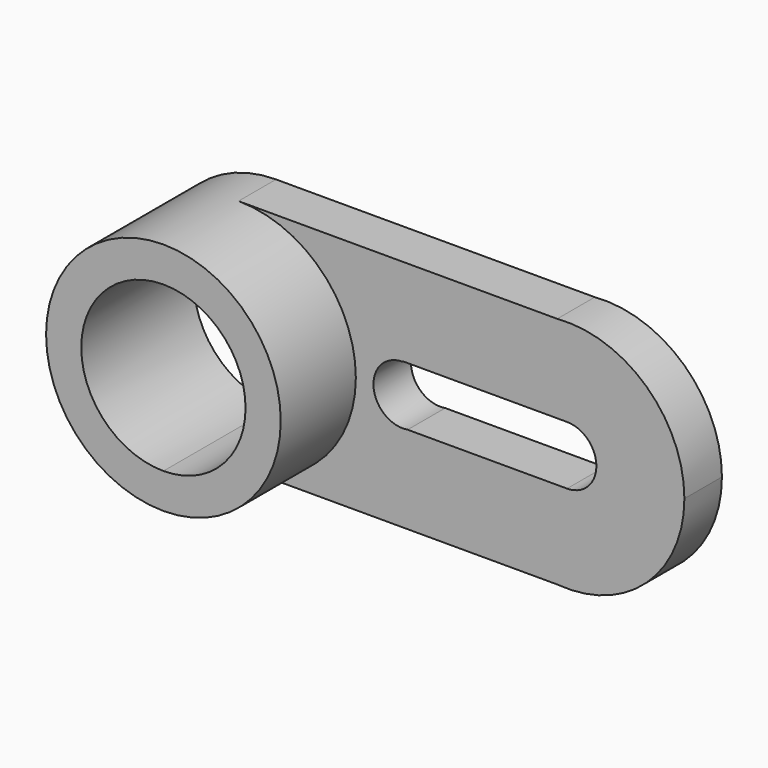
from build123d import *

# Parameters (mm, degrees)
F1_DEPTH = 60
F2_DEPTH = 20


with BuildPart() as f1:
    # F0 (on Front) → F1 (new body)
    with BuildSketch(Plane.XZ):
        with BuildLine():
            ThreePointArc((0, -35), (-35, 0), (0, 35))
            Line((0, 35), (0, 50))
            ThreePointArc((0, 50), (-49.9122707735, -2.9606124755), (5.9108356613, -49.6493909508))
            Line((5.9108356613, -49.6493909508), (0, -49.6493909508))
            Line((0, -49.6493909508), (0, -35))
        make_face()
        with BuildLine():
            ThreePointArc((0, 35), (24.7487373415, 24.7487373415), (35, 0))
            ThreePointArc((35, 0), (24.7487373415, -24.7487373415), (0, -35))
            Line((0, -35), (0, -49.6493909508))
            Line((0, -49.6493909508), (5.9108356613, -49.6493909508))
            ThreePointArc((5.9108356613, -49.6493909508), (37.3867742863, -33.1998359705), (50, 0))
            ThreePointArc((50, 0), (35.3553390593, 35.3553390593), (0, 50))
            Line((0, 50), (0, 35))
        make_face()
    extrude(amount=F1_DEPTH)

    # F0 (on Front) → F2 (join)
    with BuildSketch(Plane.XZ):
        with BuildLine():
            ThreePointArc((0, 35), (24.7487373415, 24.7487373415), (35, 0))
            ThreePointArc((35, 0), (24.7487373415, -24.7487373415), (0, -35))
            Line((0, -35), (0, -49.6493909508))
            Line((0, -49.6493909508), (5.9108356613, -49.6493909508))
            ThreePointArc((5.9108356613, -49.6493909508), (37.3867742863, -33.1998359705), (50, 0))
            ThreePointArc((50, 0), (35.3553390593, 35.3553390593), (0, 50))
            Line((0, 50), (0, 35))
        make_face()
        with BuildLine():
            ThreePointArc((0, -35), (-35, 0), (0, 35))
            Line((0, 35), (0, 50))
            ThreePointArc((0, 50), (-49.9122707735, -2.9606124755), (5.9108356613, -49.6493909508))
            Line((5.9108356613, -49.6493909508), (0, -49.6493909508))
            Line((0, -49.6493909508), (0, -35))
        make_face()
        with BuildLine():
            Line((135.8167332402, 50), (0, 50))
            ThreePointArc((0, 50), (35.3553390593, 35.3553390593), (50, 0))
            ThreePointArc((50, 0), (37.3867742863, -33.1998359705), (5.9108356613, -49.6493909508))
            Line((5.9108356613, -49.6493909508), (135.8167332402, -49.6493909508))
            ThreePointArc((135.8167332402, -49.6493909508), (107.7531952147, -38.0365206233), (91.5877081724, -12.3246954754))
            Line((91.5877081724, -12.3246954754), (72.0861163531, -12.3246954754))
            ThreePointArc((72.0861163531, -12.3246954754), (57.5439032309, -1.0467345789), (70, 12.5))
            Line((70, 12.5), (70, 12.6753045246))
            Line((70, 12.6753045246), (91.5877081724, 12.6753045246))
            ThreePointArc((91.5877081724, 12.6753045246), (107.7531952147, 38.3871296725), (135.8167332402, 50))
        make_face()
        with BuildLine():
            ThreePointArc((190, 0.1753045246), (173.8440294735, 36.9799464736), (135.8167332402, 50))
            Line((135.8167332402, 50), (140, 50))
            Line((140, 50), (140, 12.6753045246))
            ThreePointArc((140, 12.6753045246), (148.8388347648, 9.0141392894), (152.5, 0.1753045246))
            ThreePointArc((152.5, 0.1753045246), (148.8388347648, -8.6635302402), (140, -12.3246954754))
            Line((140, -12.3246954754), (140, -49.6493909508))
            Line((140, -49.6493909508), (135.8167332402, -49.6493909508))
            ThreePointArc((135.8167332402, -49.6493909508), (173.8440294735, -36.6293374244), (190, 0.1753045246))
        make_face()
        with BuildLine():
            Line((140, 50), (135.8167332402, 50))
            ThreePointArc((135.8167332402, 50), (107.7531952147, 38.3871296725), (91.5877081724, 12.6753045246))
            Line((91.5877081724, 12.6753045246), (140, 12.6753045246))
            Line((140, 12.6753045246), (140, 50))
        make_face()
        with BuildLine():
            ThreePointArc((91.5877081724, -12.3246954754), (107.7531952147, -38.0365206233), (135.8167332402, -49.6493909508))
            Line((135.8167332402, -49.6493909508), (140, -49.6493909508))
            Line((140, -49.6493909508), (140, -12.3246954754))
            Line((140, -12.3246954754), (91.5877081724, -12.3246954754))
        make_face()
    extrude(amount=F2_DEPTH)


solid = f1.part
